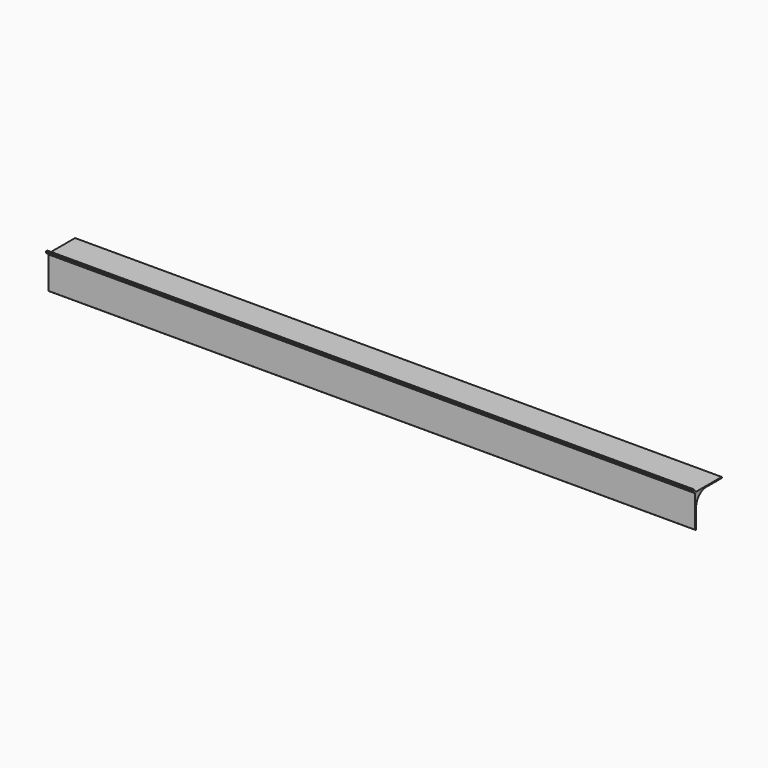
from build123d import *

# Parameters (mm, degrees)
F1_DEPTH = 1000


with BuildPart() as f1:
    # F0 (on Right) → F1 (new body)
    with BuildSketch(Plane.YZ):
        with BuildLine():
            Line((0, 50), (0, 0.5))
            ThreePointArc((0, 0.5), (0.146447, 0.146447), (0.5, 0))
            Line((0.5, 0), (1.1, 0))
            ThreePointArc((1.1, 0), (1.453553, 0.146447), (1.6, 0.5))
            Line((1.6, 0.5), (1.6, 29.955635))
            ThreePointArc((1.6, 29.955635), (7.457864, 44.097771), (21.6, 49.955635))
            Line((21.6, 49.955635), (51.055635, 49.955635))
            ThreePointArc((51.055635, 49.955635), (51.409188, 50.102082), (51.555635, 50.455635))
            Line((51.555635, 50.455635), (51.555635, 51.055635))
            ThreePointArc((51.555635, 51.055635), (51.409188, 51.409188), (51.055635, 51.555635))
            Line((51.055635, 51.555635), (1.555635, 51.555635))
            Line((1.555635, 51.555635), (-2.048097, 55.159367))
            ThreePointArc((-2.048097, 55.159367), (-2.10229, 55.240473), (-2.12132, 55.336144))
            Line((-2.12132, 55.336144), (-2.12132, 56.028606))
            ThreePointArc((-2.12132, 56.028606), (-2.209188, 56.240738), (-2.42132, 56.328606))
            Line((-2.42132, 56.328606), (-4.472971, 56.328606))
            ThreePointArc((-4.472971, 56.328606), (-4.685103, 56.240738), (-4.772971, 56.028606))
            Line((-4.772971, 56.028606), (-4.772971, 53.976955))
            ThreePointArc((-4.772971, 53.976955), (-4.685103, 53.764823), (-4.472971, 53.676955))
            Line((-4.472971, 53.676955), (-3.780509, 53.676955))
            ThreePointArc((-3.780509, 53.676955), (-3.684838, 53.657925), (-3.603732, 53.603732))
            Line((-3.603732, 53.603732), (0, 50))
        make_face()
    extrude(amount=F1_DEPTH)


solid = f1.part
